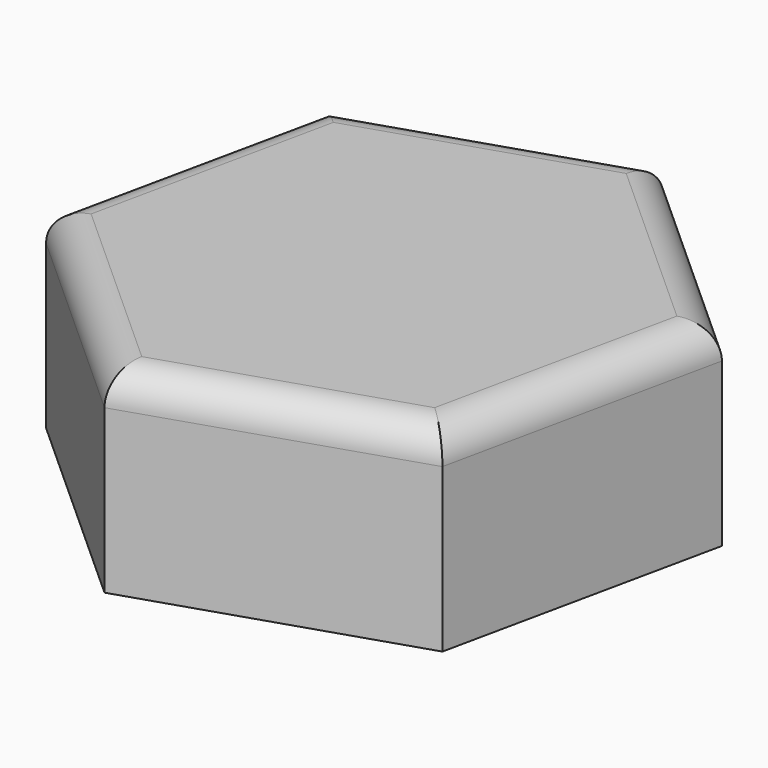
from build123d import *

# Parameters (mm, degrees)
F1_DEPTH = 6
F2_R     = 1


with BuildPart() as f1:
    # F0 (on Top) → F1 (new body)
    with BuildSketch(Plane.XY):
        Polygon((-14.410796, 5.551997), (-6.172965, 8.223726), (-4.367834, 16.693761), (-10.800535, 22.492068), (-19.038366, 19.82034), (-20.843497, 11.350304), align=None)
    extrude(amount=F1_DEPTH)

    # F2
    f2_edges = [f1.edges().sort_by_distance(p)[0] for p in [
        (-10.29188, 6.887862, 6),
        (-5.270399, 12.458744, 6),
        (-7.584184, 19.592915, 6),
        (-14.91945, 21.156204, 6),
        (-19.940931, 15.585322, 6),
        (-17.627146, 8.451151, 6),
    ]]
    fillet(f2_edges, radius=F2_R)


solid = f1.part
